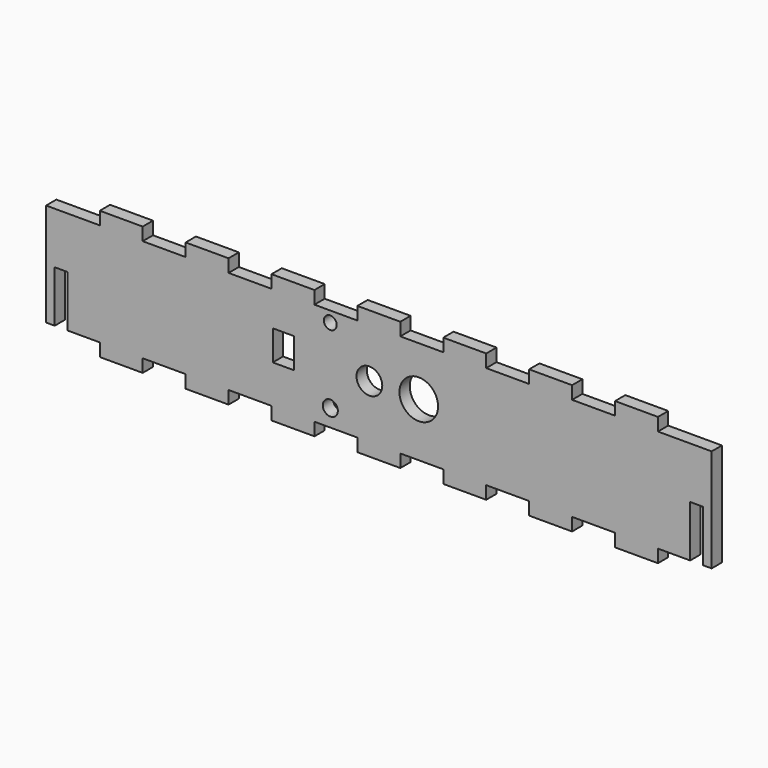
from build123d import *

# Parameters (mm, degrees)
F0_W     = 151
F0_H     = 30
F1_DEPTH = 3
F2_W     = 5
F2_H     = 3
F2_W_2   = 6.4484283328
F2_W_3   = 10
F2_W_4   = 3.5515716672
F2_R     = 4.5
F2_R_2   = 1.5
F2_R_3   = 1.75
F2_R_4   = 3
F2_H_2   = 7
F3_DEPTH = 25
F4_DEPTH = 2
F5_DEPTH = 2
F6_W     = 3
F6_H     = 12
F7_DEPTH = 25


with BuildPart() as f1:
    # F0 (on Front) → F1 (new body)
    with BuildSketch(Plane.XZ):
        Rectangle(F0_W, F0_H)
    extrude(amount=F1_DEPTH)

    # F2 (on face) → F3 (cut)
    with BuildSketch(Plane.XZ.offset(3)):
        with Locations((-72.5, -13.5)):
            Rectangle(F2_W, F2_H)
        with Locations((-78.2242141664, -13.5)):
            Rectangle(F2_W_2, F2_H)
        with Locations((-67.5, -13.5)):
            Rectangle(F2_W, F2_H)
        with Locations((-72.5, 13.5)):
            Rectangle(F2_W, F2_H)
        with Locations((-78.2242141664, 13.5)):
            Rectangle(F2_W_2, F2_H)
        with Locations((-67.5, 13.5)):
            Rectangle(F2_W, F2_H)
        with Locations((-50, -13.5)):
            Rectangle(F2_W_3, F2_H)
        with Locations((-50, 13.5)):
            Rectangle(F2_W_3, F2_H)
        with Locations((-30, -13.5)):
            Rectangle(F2_W_3, F2_H)
        with Locations((-30, 13.5)):
            Rectangle(F2_W_3, F2_H)
        with Locations((-10, -13.5)):
            Rectangle(F2_W_3, F2_H)
        with Locations((-10, 13.5)):
            Rectangle(F2_W_3, F2_H)
        with Locations((10, -13.5)):
            Rectangle(F2_W_3, F2_H)
        with Locations((10, 13.5)):
            Rectangle(F2_W_3, F2_H)
        with Locations((30, -13.5)):
            Rectangle(F2_W_3, F2_H)
        with Locations((30, 13.5)):
            Rectangle(F2_W_3, F2_H)
        with Locations((50, -13.5)):
            Rectangle(F2_W_3, F2_H)
        with Locations((50, 13.5)):
            Rectangle(F2_W_3, F2_H)
        with Locations((66.7757858336, -13.5)):
            Rectangle(F2_W_4, F2_H)
        with Locations((71.7757858336, -13.5)):
            Rectangle(F2_W_2, F2_H)
        with Locations((77.5, -13.5)):
            Rectangle(F2_W, F2_H)
        with Locations((66.7757858336, 13.5)):
            Rectangle(F2_W_4, F2_H)
        with Locations((71.7757858336, 13.5)):
            Rectangle(F2_W_2, F2_H)
        with Locations((77.5, 13.5)):
            Rectangle(F2_W, F2_H)
        with Locations((9.2957439325, 0.5)):
            Circle(F2_R)
        with Locations((-11.3042560675, 9.5)):
            Circle(F2_R_2)
        with Locations((-11.3042560675, -8)):
            Circle(F2_R_3)
        with Locations((-2.2042560675, 0.5)):
            Circle(F2_R_4)
        with Locations((-22.2042560675, 0.5)):
            Rectangle(F2_W, F2_H_2)
    extrude(amount=-F3_DEPTH, mode=Mode.SUBTRACT)

    # F4 (add): a face of the model
    f4_faces = [f1.faces().sort_by_distance(p)[0] for p in [
        (75.5, -1.5, 0),
    ]]
    extrude(f4_faces, amount=F4_DEPTH)

    # F5 (add): a face of the model
    f5_faces = [f1.faces().sort_by_distance(p)[0] for p in [
        (-75.5, -1.5, 0),
    ]]
    extrude(f5_faces, amount=F5_DEPTH)

    # F6 (on face) → F7 (cut)
    with BuildSketch(Plane(origin=(0, 0, 0), x_dir=(-1, 0, 0), z_dir=(0, 1, 0))):
        with Locations((74, -6)):
            Rectangle(F6_W, F6_H)
        with Locations((-74, -6)):
            Rectangle(F6_W, F6_H)
    extrude(amount=-F7_DEPTH, mode=Mode.SUBTRACT)


solid = f1.part
